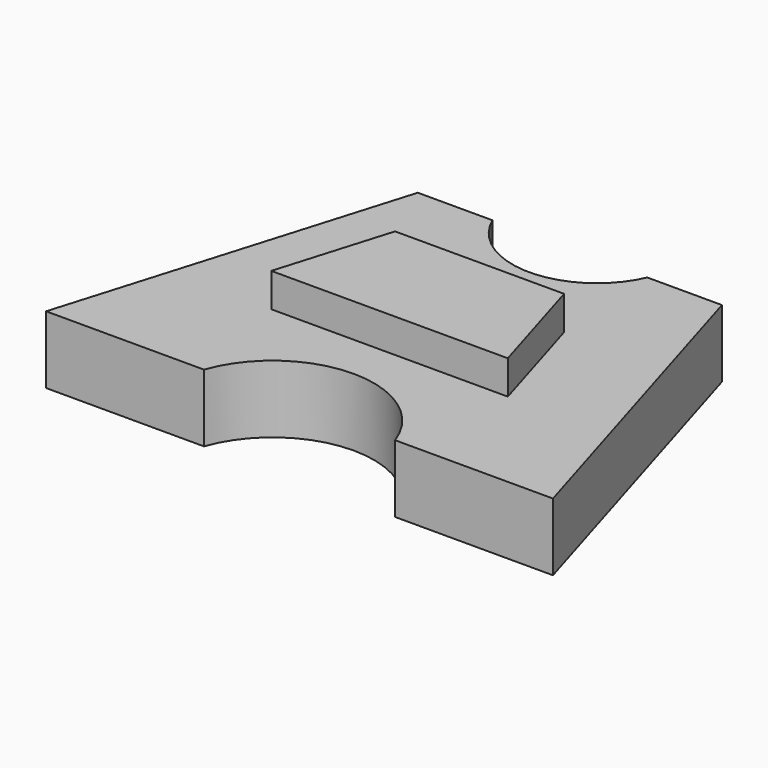
from build123d import *

# Parameters (mm, degrees)
F1_DEPTH = 5.08
F2_DEPTH = 7.62
F3_D     = 15.24
F4_D     = 12.7


with BuildPart() as f1:
    # F0 (on Top) → F1 (new body)
    with BuildSketch(Plane.XY):
        Polygon((7.62, 25.4), (0, 0), (38.1, 0), (30.48, 25.4), align=None)
        Polygon((27.94, 8.4582), (10.16, 8.4582), (12.69746, 16.9164), (25.40254, 16.9164), align=None, mode=Mode.SUBTRACT)
        Polygon((12.69746, 16.9164), (10.16, 8.4582), (27.94, 8.4582), (25.40254, 16.9164), align=None)
    extrude(amount=F1_DEPTH)

    # F0 (on Top) → F2 (join)
    with BuildSketch(Plane.XY):
        Polygon((12.69746, 16.9164), (10.16, 8.4582), (27.94, 8.4582), (25.40254, 16.9164), align=None)
    extrude(amount=F2_DEPTH)

    # F3 (through all)
    with Locations(Plane(origin=(0, 0, 0), x_dir=(1, 0, 0), z_dir=(0, 0, -1))):
        with Locations((19.05, 2.54)):
            Hole(F3_D / 2)

    # F4 (through all)
    with Locations(Plane(origin=(0, 0, 0), x_dir=(1, 0, 0), z_dir=(0, 0, -1))):
        with Locations((19.05, -27.94)):
            Hole(F4_D / 2)


solid = f1.part
